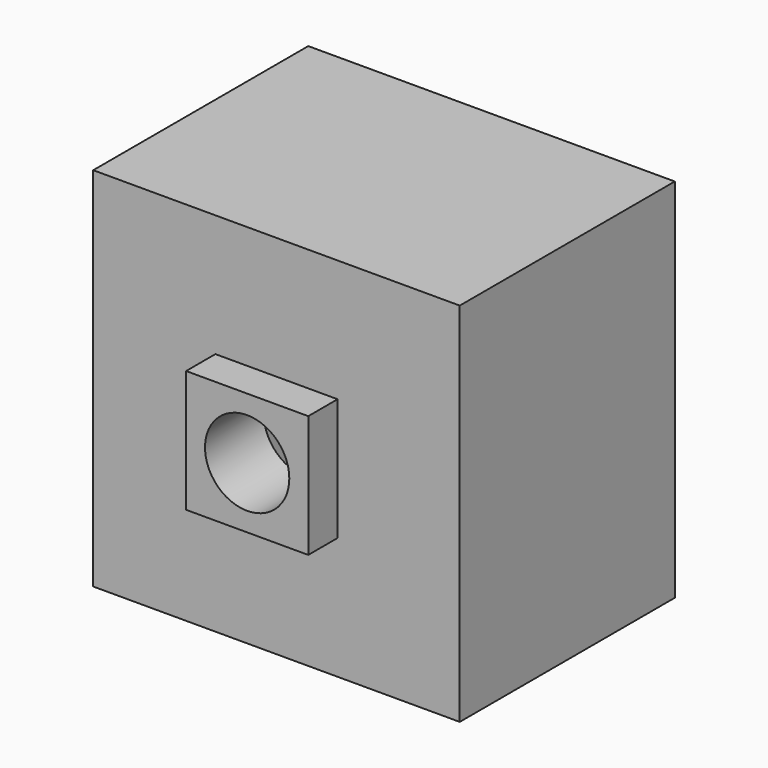
from build123d import *

# Parameters (mm, degrees)
F0_W      = 150
F0_H      = 150
F1_DEPTH  = 100
F2_W      = 130
F2_H      = 130
F3_DEPTH  = 85
F4_W      = 150
F4_H      = 150
F5_DEPTH  = 10
F6_W      = 50
F6_H      = 50
F7_DEPTH  = 15
F8_R      = 17.25
F9_DEPTH  = 30
F10_R     = 2
F11_DEPTH = 10
F13_DEPTH = 10
F14_R     = 3


with BuildPart() as f1:
    # F0 (on Front) → F1 (new body)
    with BuildSketch(Plane.XZ):
        Rectangle(F0_W, F0_H)
    extrude(amount=-F1_DEPTH)

    # F2 (on face) → F3 (cut)
    with BuildSketch(Plane(origin=(0, 100, 0), x_dir=(-1, 0, 0), z_dir=(0, 1, 0))):
        Rectangle(F2_W, F2_H)
    extrude(amount=-F3_DEPTH, mode=Mode.SUBTRACT)

    # F4 (on face) → F5 (join)
    with BuildSketch(Plane(origin=(0, 100, 0), x_dir=(-1, 0, 0), z_dir=(0, 1, 0))):
        Rectangle(F4_W, F4_H)
    extrude(amount=F5_DEPTH)

    # F6 (on face) → F7 (join)
    with BuildSketch(Plane.XZ):
        Rectangle(F6_W, F6_H)
    extrude(amount=F7_DEPTH)

    # F8 (on face) → F9 (cut, through all)
    with BuildSketch(Plane.XZ.offset(15)):
        Circle(F8_R)
    extrude(amount=-F9_DEPTH, mode=Mode.SUBTRACT)

    # F10 (on face) → F11 (cut, through all)
    with BuildSketch(Plane(origin=(0, 110, 0), x_dir=(-1, 0, 0), z_dir=(0, 1, 0))):
        with Locations((25, 25)):
            Circle(F10_R)
        with Locations((25, -25)):
            Circle(F10_R)
        with Locations((-25, 25)):
            Circle(F10_R)
        with Locations((-25, -25)):
            Circle(F10_R)
    extrude(amount=-F11_DEPTH, mode=Mode.SUBTRACT)

    # F12 (on face) → F13 (cut, through all)
    with BuildSketch(Plane(origin=(0, 110, 0), x_dir=(-1, 0, 0), z_dir=(0, 1, 0))):
        Polygon((14.85, 29.471261), (-14.85, 29.471261), (-29.5, 14.85), (-29.5, -14.85), (-14.85, -29.471261), (14.85, -29.471261), (29.5, -14.85), (29.5, 14.85), align=None)
    extrude(amount=-F13_DEPTH, mode=Mode.SUBTRACT)

    # F14
    f14_edges = [f1.edges().sort_by_distance(p)[0] for p in [
        (29.5, 105, 14.85),
        (14.85, 105, 29.471261),
        (29.5, 105, -14.85),
        (14.85, 105, -29.471261),
        (-14.85, 105, -29.471261),
        (-14.85, 105, 29.471261),
        (-29.5, 105, 14.85),
        (-29.5, 105, -14.85),
    ]]
    fillet(f14_edges, radius=F14_R)


solid = f1.part
